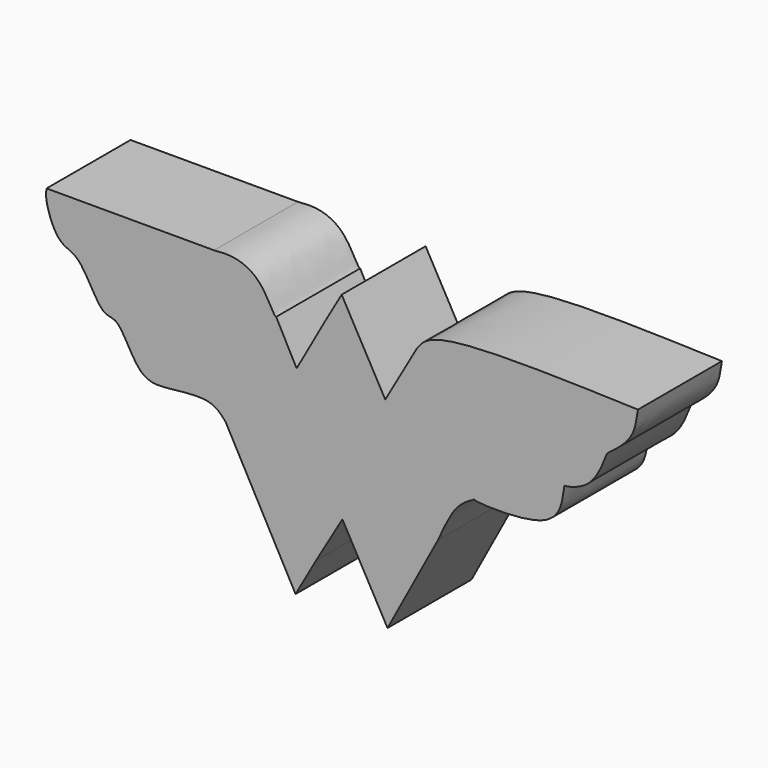
from build123d import *

# Parameters (mm, degrees)
F1_DEPTH = 25.4


with BuildPart() as f1:
    # F0 (on Front) → F1 (new body)
    with BuildSketch(Plane.XZ):
        with BuildLine():
            Line((-29.9797095358, 34.8386019468), (-70.4961195588, 34.8386019468))
            add(Edge.make_bspline(
                [(-27.1417479962, -0.8408149006), (-28.1494269438, 0.3232443078), (-30.593871252, 3.1470384468), (-40.5391599709, 1.7712864622), (-48.4327485736, 1.2002101582), (-52.738083681, 13.2573161164), (-57.485914174, 11.6883458145), (-62.0613850928, 23.5111329849), (-67.7856010954, 23.5382440608), (-70.8913937204, 32.0662065455), (-70.6026323194, 34.0915369564), (-70.4961195588, 34.8386019468)],
                knots=[0, 0, 0, 0, 0.0938374108, 0.227632348, 0.3444774098, 0.4846691682, 0.565066023, 0.7072074625, 0.8058184274, 0.9283740303, 1, 1, 1, 1], degree=3))
            Line((-27.1417479962, -0.8408149006), (-10.2376770228, -31.9899357855))
            Line((-10.2376770228, -31.9899357855), (-5.2858116105, -23.2390202582))
            Line((-5.2858116105, -23.2390202582), (1.1016994249, -12.3560167849))
            Line((1.1016994249, -12.3560167849), (12.0210982859, -31.9899357855))
            Line((12.0210982859, -31.9899357855), (24.2794007063, -9.174991399))
            add(Edge.make_bspline(
                [(32.8700169921, 2.1651922725), (31.4793116312, 1.3773841655), (28.17566717, -0.4940675182), (25.7081749942, -5.9916668107), (24.2794007063, -9.174991399)],
                knots=[0, 0, 0, 0, 0.4209609652, 1, 1, 1, 1], degree=3))
            add(Edge.make_bspline(
                [(65.1637241244, 22.514462471), (64.7898209346, 21.5270852975), (63.8977456175, 19.1713557151), (60.7538165714, 13.4407447214), (55.1675476668, 12.151625936), (54.7725257559, 12.4682073386), (54.4488083171, 8.6328231282), (51.8216772627, 0.884070733), (33.0160388461, 1.7299538543), (33.0798381267, 2.3018511288), (32.9450800135, 2.2140816595), (32.8700169921, 2.1651922725)],
                knots=[0, 0, 0, 0, 0.1131869023, 0.2700464839, 0.4054103366, 0.4309227883, 0.5354010807, 0.7050238292, 0.9511490006, 0.9727889956, 1, 1, 1, 1], degree=3))
            add(Edge.make_bspline(
                [(72.6277381182, 34.2611148953), (72.331047037, 32.0801269695), (71.7052626581, 27.4799611356), (67.4182291162, 24.2257940589), (65.1637241244, 22.514462471)],
                knots=[0, 0, 0, 0, 0.4741107179, 1, 1, 1, 1], degree=3))
            add(Edge.make_bspline(
                [(19.0336406231, 29.7337602824), (19.6499564168, 30.6066799681), (21.3552377725, 33.0219574609), (33.4405030784, 35.5119388215), (56.9967774424, 34.7600421502), (72.6277381182, 34.2611148953)],
                knots=[0, 0, 0, 0, 0.159956157, 0.4425819604, 1, 1, 1, 1], degree=3))
            Line((19.0336406231, 29.7337602824), (11.4733781666, 16.5143460035))
            Line((11.4733781666, 16.5143460035), (0.9172364953, 35.4274362326))
            Line((0.9172364953, 35.4274362326), (-3.5025158431, 27.7534145862))
            Line((-3.5025158431, 27.7534145862), (-9.9753234535, 16.1683261395))
            Line((-9.9753234535, 16.1683261395), (-14.9287665263, 25.5493503064))
            add(Edge.make_bspline(
                [(-29.9797095358, 34.8386019468), (-28.4426269392, 34.9734451217), (-25.0367017771, 35.2722356768), (-18.5118763257, 32.6686824539), (-15.4995217943, 25.6003215332), (-15.0158120298, 25.557123894), (-14.9287665263, 25.5493503064)],
                knots=[0, 0, 0, 0, 0.2715291313, 0.6016644144, 0.9283179209, 1, 1, 1, 1], degree=3))
        make_face()
    extrude(amount=F1_DEPTH)


solid = f1.part
